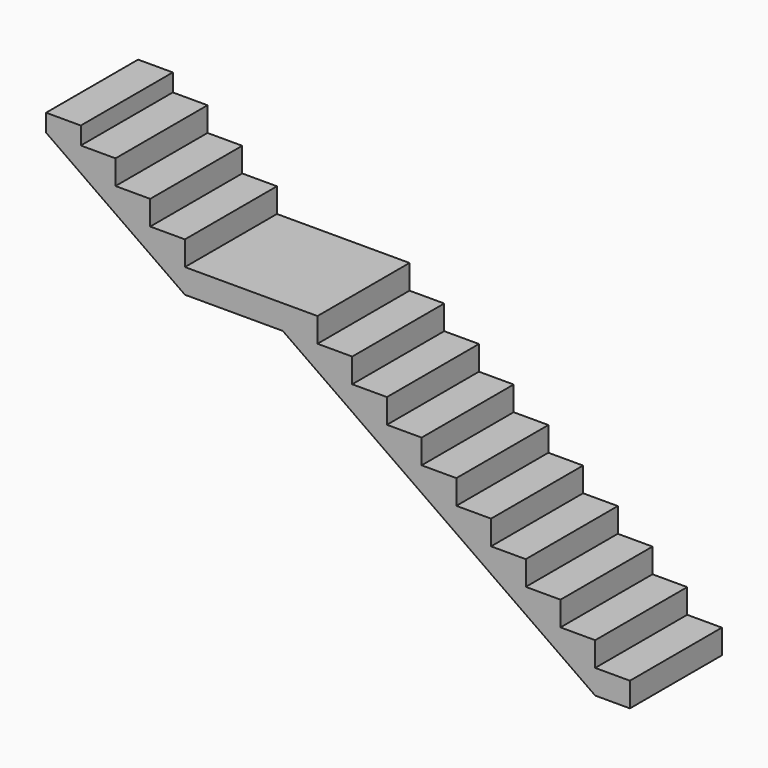
from build123d import *

# Parameters (mm, degrees)
F1_DEPTH = 69.85


with BuildPart() as f1:
    # F0 (on Front) → F1 (new body)
    with BuildSketch(Plane.XZ):
        Polygon((21.082, 0), (0, 0), (0, -10.6934), (84.328, -69.9262), (143.764, -69.9262), (333.502, -203.2), (354.584, -203.2), (354.584, -188.3918), (333.502, -188.3918), (333.502, -173.5836), (312.42, -173.5836), (312.42, -158.7754), (291.338, -158.7754), (291.338, -143.9672), (270.256, -143.9672), (270.256, -129.159), (249.174, -129.159), (249.174, -114.3508), (228.092, -114.3508), (228.092, -99.5426), (207.01, -99.5426), (207.01, -84.7344), (185.928, -84.7344), (185.928, -69.9262), (164.846, -69.9262), (164.846, -55.118), (84.328, -55.118), (84.328, -40.3098), (63.246, -40.3098), (63.246, -25.5016), (42.164, -25.5016), (42.164, -10.6934), (21.082, -10.6934), align=None)
    extrude(amount=F1_DEPTH)


solid = f1.part
